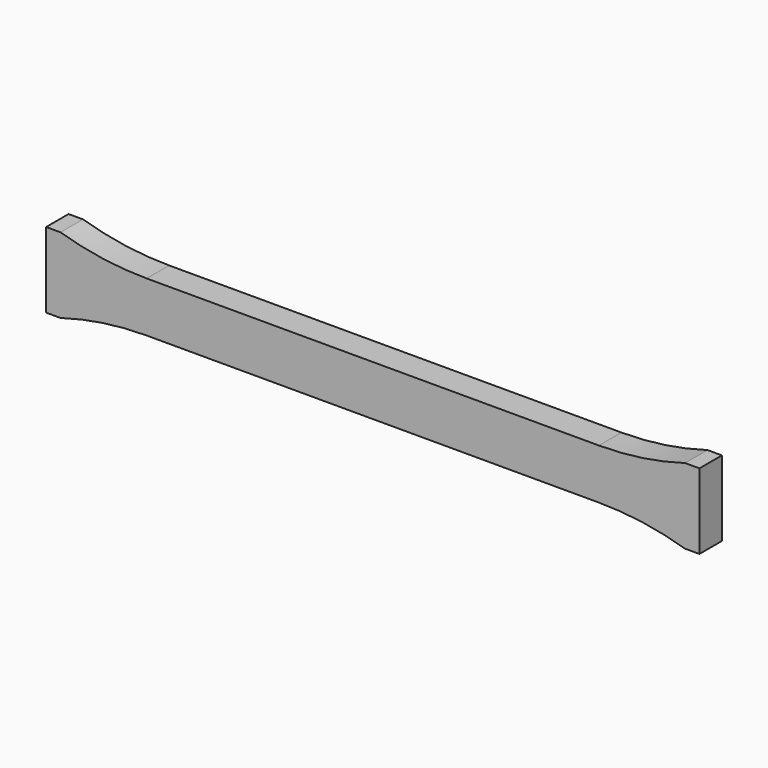
from build123d import *

# Parameters (mm, degrees)
F1_DEPTH = 7.112


with BuildPart() as f1:
    # F0 (on Front) → F1 (new body)
    with BuildSketch(Plane.XZ):
        with BuildLine():
            Line((57.15, 6.35), (0, 6.35))
            Line((0, 6.35), (-57.15, 6.35))
            ThreePointArc((-57.15, 6.35), (-68.148523, 7.147928), (-78.916703, 9.525))
            Line((-78.916703, 9.525), (-82.55, 9.525))
            Line((-82.55, 9.525), (-82.55, 0))
            Line((-82.55, 0), (-82.55, -9.525))
            Line((-82.55, -9.525), (-78.916703, -9.525))
            ThreePointArc((-78.916703, -9.525), (-68.148523, -7.147928), (-57.15, -6.35))
            Line((-57.15, -6.35), (0, -6.35))
            Line((0, -6.35), (57.15, -6.35))
            ThreePointArc((57.15, -6.35), (68.148523, -7.147928), (78.916703, -9.525))
            Line((78.916703, -9.525), (82.55, -9.525))
            Line((82.55, -9.525), (82.55, 0))
            Line((82.55, 0), (82.55, 9.525))
            Line((82.55, 9.525), (78.916703, 9.525))
            ThreePointArc((78.916703, 9.525), (68.148523, 7.147928), (57.15, 6.35))
        make_face()
    extrude(amount=F1_DEPTH)


solid = f1.part
